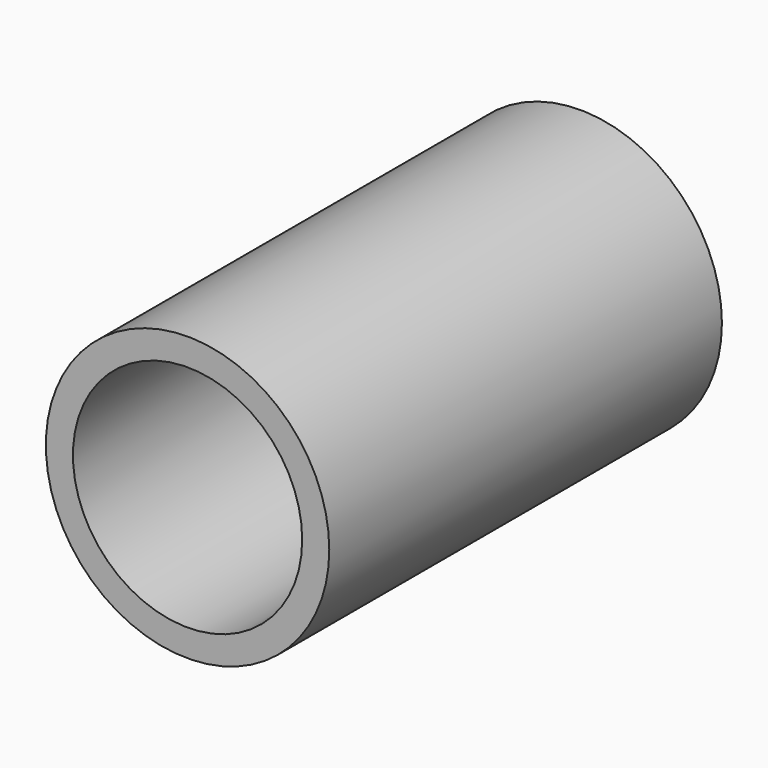
from build123d import *

# Parameters (mm, degrees)
F0_R     = 73.3332365525
F0_R_2   = 59.319487814
F1_DEPTH = 254
F2_T     = -2.54


with BuildPart() as f1:
    # F0 (on Front) → F1 (new body)
    with BuildSketch(Plane.XZ):
        Circle(F0_R)
        Circle(F0_R_2, mode=Mode.SUBTRACT)
    extrude(amount=-F1_DEPTH)

    # F2 (hollow: no face is removed)
    offset(amount=F2_T, mode=Mode.SUBTRACT)


solid = f1.part
